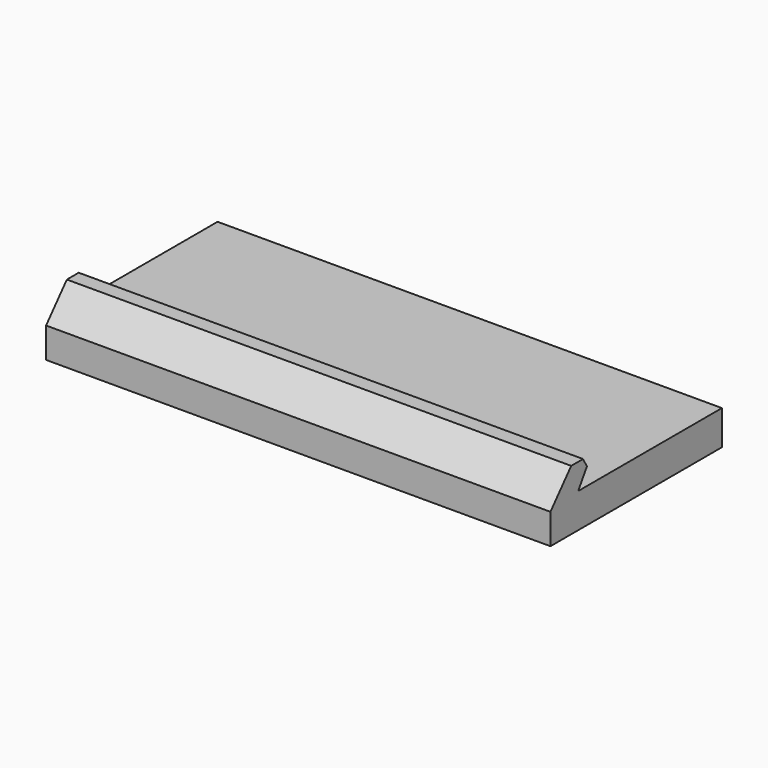
from build123d import *

# Parameters (mm, degrees)
F1_DEPTH = 25
F3_DEPTH = 106.1


with BuildPart() as f1:
    # F0 (on Top) → F1 (new body)
    with BuildSketch(Plane.XY):
        with BuildLine():
            Line((-45, -25), (45, -25))
            ThreePointArc((45, -25), (48.5355339059, -23.5355339059), (50, -20))
            Line((50, -20), (50, 22.5))
            ThreePointArc((50, 22.5), (49.267766953, 24.267766953), (47.5, 25))
            Line((47.5, 25), (-47.5, 25))
            ThreePointArc((-47.5, 25), (-49.267766953, 24.267766953), (-50, 22.5))
            Line((-50, 22.5), (-50, -20))
            ThreePointArc((-50, -20), (-48.5355339059, -23.5355339059), (-45, -25))
        make_face()
    extrude(amount=F1_DEPTH)

    # F2 (on face) → F3 (cut)
    with BuildSketch(Plane.YZ.offset(50)):
        Polygon((22.5, 0), (25.4749804735, 0), (25.0893887132, 6.8410052918), (22.5, 6.8410052918), align=None)
        Polygon((-25.2154432237, 0), (-20, 0), (-20, 6.009552968), align=None)
        Polygon((-13.1276939064, 6.8410052918), (22.5, 6.8410052918), (22.5, 25), (-20, 25), (-20, 6.009552968), (-14.8533117026, 11.9398823008), (-11.9127072394, 11.9398823008), (-10.9628923237, 10.2547314018), align=None)
        Polygon((25.0893887132, 6.8410052918), (25.4749804735, 0), (36.3297052681, 11.9398823008), (27.1709300578, 33.9842922986), (-13.1276939064, 31.7128692126), (-32.7774360776, 29.1551183909), (-25.2154432237, 0), (-20, 6.009552968), (-20, 25), (22.5, 25), (22.5, 6.8410052918), align=None)
    extrude(amount=-F3_DEPTH, mode=Mode.SUBTRACT)


solid = f1.part
